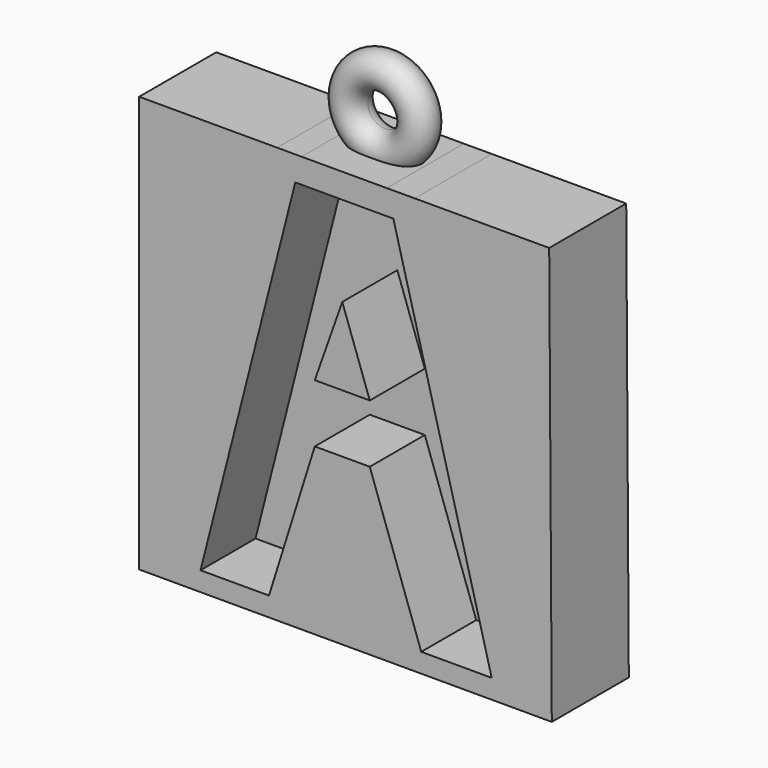
from build123d import *

# Parameters (mm, degrees)
F1_DEPTH = 2.54
F2_DEPTH = 6.35


with BuildPart() as f1:
    # F0 (on Front) → F1 (new body)
    with BuildSketch(Plane.XZ):
        Polygon((14.4152494168, 36.1535907401), (5.6633852157, 1.778), (11.9867476806, 1.778), (16.2139723114, 15.2778414103), (21.2939723114, 15.2778414103), (26.0443502781, 1.778), (32.5503381746, 1.778), (23.4699654551, 36.1535907401), align=None)
        Polygon((21.2939723114, 20.6651952089), (16.2139723114, 20.6651952089), (18.7539723114, 27.8494001058), align=None, mode=Mode.SUBTRACT)
        Polygon((0, 0), (5.08, 0), (5.2107147535, 0), (5.6633852157, 1.778), (14.4152494168, 36.1535907401), (14.9956496651, 38.4332880643), (12.7460089281, 38.4314865499), (0, 38.4314865499), align=None)
        Polygon((32.5503381746, 1.778), (33.02, 0), (38.1, 0), (37.8601082237, 38.4515979446), (25.4348134573, 38.4416477567), (22.8661145367, 38.4395907401), (23.4699654551, 36.1535907401), align=None)
        Polygon((11.9867476806, 1.778), (11.43, 0), (26.67, 0), (26.0443502781, 1.778), (21.2939723114, 15.2778414103), (16.2139723114, 15.2778414103), align=None)
        Polygon((14.9956496651, 38.4332880643), (14.4152494168, 36.1535907401), (23.4699654551, 36.1535907401), (22.8661145367, 38.4395907401), align=None)
        Polygon((18.7539723114, 27.8494001058), (16.2139723114, 20.6651952089), (21.2939723114, 20.6651952089), align=None)
        Polygon((26.0443502781, 1.778), (26.67, 0), (33.02, 0), (32.5503381746, 1.778), align=None)
        Polygon((5.6633852157, 1.778), (5.2107147535, 0), (11.43, 0), (11.9867476806, 1.778), align=None)
    extrude(amount=-F1_DEPTH)

    # F0 (on Front) → F2 (join)
    with BuildSketch(Plane.XZ):
        Polygon((0, 0), (5.08, 0), (5.2107147535, 0), (5.6633852157, 1.778), (14.4152494168, 36.1535907401), (14.9956496651, 38.4332880643), (12.7460089281, 38.4314865499), (0, 38.4314865499), align=None)
        Polygon((18.7539723114, 27.8494001058), (16.2139723114, 20.6651952089), (21.2939723114, 20.6651952089), align=None)
        Polygon((32.5503381746, 1.778), (33.02, 0), (38.1, 0), (37.8601082237, 38.4515979446), (25.4348134573, 38.4416477567), (22.8661145367, 38.4395907401), (23.4699654551, 36.1535907401), align=None)
        Polygon((11.9867476806, 1.778), (11.43, 0), (26.67, 0), (26.0443502781, 1.778), (21.2939723114, 15.2778414103), (16.2139723114, 15.2778414103), align=None)
        Polygon((14.9956496651, 38.4332880643), (14.4152494168, 36.1535907401), (23.4699654551, 36.1535907401), (22.8661145367, 38.4395907401), align=None)
        Polygon((26.0443502781, 1.778), (26.67, 0), (33.02, 0), (32.5503381746, 1.778), align=None)
        Polygon((5.6633852157, 1.778), (5.2107147535, 0), (11.43, 0), (11.9867476806, 1.778), align=None)
    extrude(amount=F2_DEPTH)

    # F4 (on offset) → F5 (revolve)
    with BuildSketch(Plane.YZ.offset(19.05)):
        with BuildLine():
            ThreePointArc((-1.7915181816, 40.1749286294), (-2.9140501967, 37.4648966143), (-0.2040181816, 38.5874286294))
            ThreePointArc((-0.2040181816, 38.5874286294), (-0.6689861664, 39.7099606445), (-1.7915181816, 40.1749286294))
        make_face()
    revolve(axis=Axis((19.05, 1.9485244993, 41.7624286294), (0, 1, 0)))


solid = f1.part
